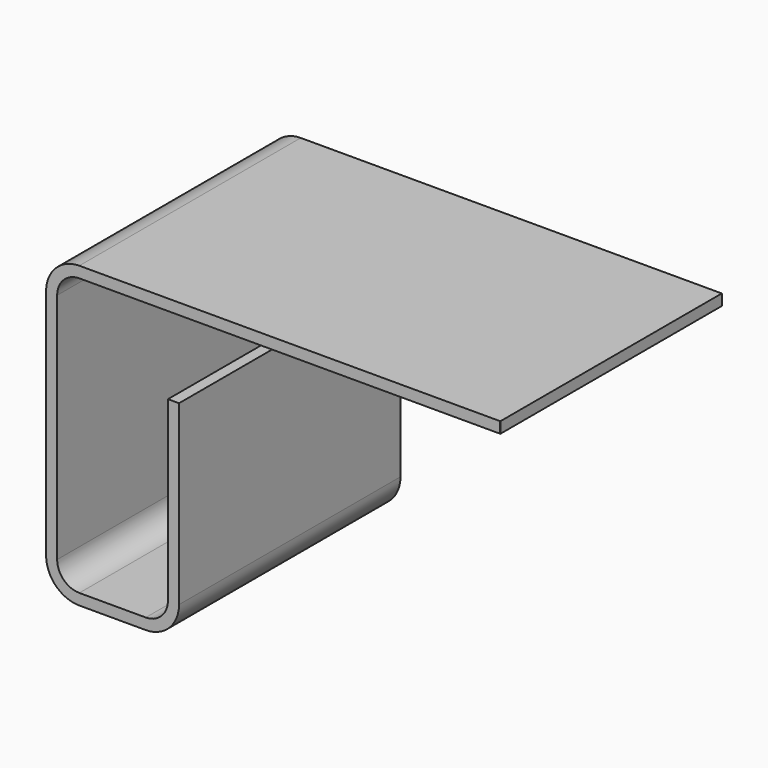
from build123d import *

# Parameters (mm, degrees)
F1_DEPTH = 25
F2_R     = 0.024142


with BuildPart() as f1:
    # F0 (on Front) → F1 (new body)
    with BuildSketch(Plane.XZ):
        with BuildLine():
            Line((-55.279965, -8.624929), (-55.279965, 12.375071))
            ThreePointArc((-55.279965, 12.375071), (-54.694179, 13.789284), (-53.279965, 14.375071))
            Line((-53.279965, 14.375071), (-15.279965, 14.375071))
            Line((-15.279965, 14.375071), (-15.279965, 15.375071))
            Line((-15.279965, 15.375071), (-53.279965, 15.375071))
            ThreePointArc((-53.279965, 15.375071), (-55.401285, 14.496391), (-56.279965, 12.375071))
            Line((-56.279965, 12.375071), (-56.279965, -8.624929))
            ThreePointArc((-56.279965, -8.624929), (-55.401285, -10.746249), (-53.279965, -11.624929))
            Line((-53.279965, -11.624929), (-47.279965, -11.624929))
            ThreePointArc((-47.279965, -11.624929), (-45.158645, -10.746249), (-44.279965, -8.624929))
            Line((-44.279965, -8.624929), (-44.279965, 7.375071))
            Line((-44.279965, 7.375071), (-45.279965, 7.375071))
            Line((-45.279965, 7.375071), (-45.279965, -8.624929))
            ThreePointArc((-45.279965, -8.624929), (-45.865752, -10.039143), (-47.279965, -10.624929))
            Line((-47.279965, -10.624929), (-53.279965, -10.624929))
            ThreePointArc((-53.279965, -10.624929), (-54.694179, -10.039143), (-55.279965, -8.624929))
        make_face()
    extrude(amount=F1_DEPTH)

    # F2
    f2_edges = [f1.edges().sort_by_distance(p)[0] for p in [
        (-15.279965, -25, 14.875071),
        (-34.279965, 0, 15.375071),
    ]]
    fillet(f2_edges, radius=F2_R)


solid = f1.part
